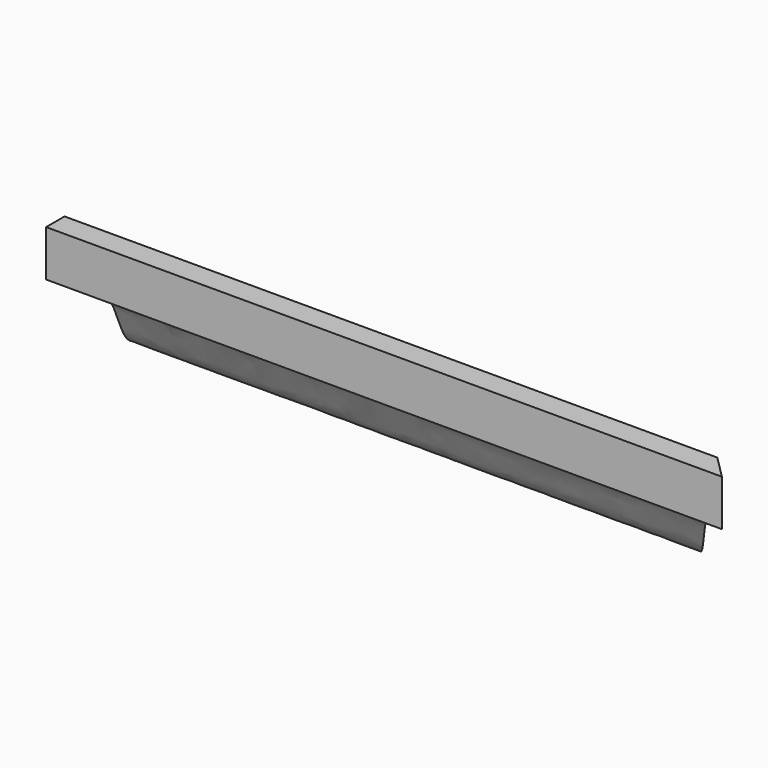
from build123d import *

# Parameters (mm, degrees)
F1_DEPTH = 1447.8
F3_DEPTH = 127
F5_DEPTH = 127
F6_W     = 1275.4871206677
F6_H     = 213.0628189915
F7_DEPTH = 127


with BuildPart() as f1:
    # F0 (on Right) → F1 (new body)
    with BuildSketch(Plane.YZ):
        with BuildLine():
            add(Edge.make_bspline(
                [(-98.7884248642, 73.3734816313), (-87.1823684526, 69.5461370455), (-65.2644929938, 62.3182502427), (-49.8033739198, 38.5451340065), (-43.6622822427, 15.8219402802), (-20.2437994586, 18.7685438503), (-13.297879309, 4.7891906519), (-4.43709461, 1.5980060831), (0, 0)],
                knots=[0, 0, 0, 0, 0.2156928292, 0.4073328959, 0.5715827781, 0.7299633327, 0.8647774117, 1, 1, 1, 1], degree=3))
            Line((0, 0), (0, 12.7))
            Line((0, 12.7), (-86.0884248642, 98.7884248642))
            Line((-86.0884248642, 98.7884248642), (-98.7884248642, 98.7884248642))
            Line((-98.7884248642, 98.7884248642), (-98.7884248642, 73.3734816313))
        make_face()
    extrude(amount=F1_DEPTH)

    # F2 (on Top) → F3 (cut)
    with BuildSketch(Plane.XY):
        Polygon((101.6, 0), (0, 0), (0, -101.6), align=None)
    extrude(amount=F3_DEPTH, mode=Mode.SUBTRACT)

    # F4 (on Top) → F5 (cut)
    with BuildSketch(Plane.XY):
        Polygon((1542.4486112665, 0), (1320.8, 0), (1542.4486112665, -221.6486112665), align=None)
    extrude(amount=F5_DEPTH, mode=Mode.SUBTRACT)

    # F6 (on Top) → F7 (cut)
    with BuildSketch(Plane.XY):
        with Locations((410.0064396661, -106.5314094958)):
            Rectangle(F6_W, F6_H)
    extrude(amount=F7_DEPTH, mode=Mode.SUBTRACT)


solid = f1.part
